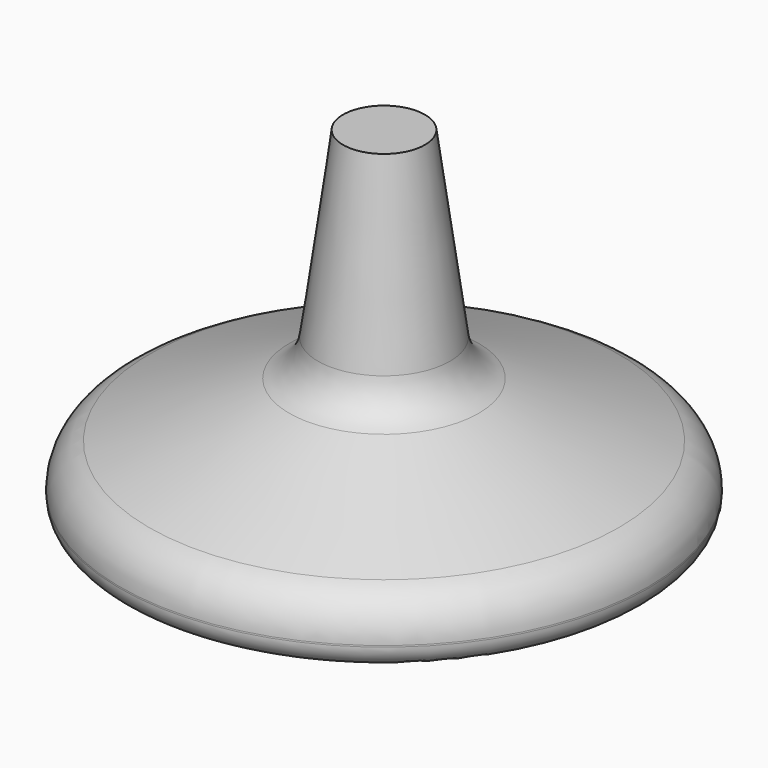
from build123d import *


with BuildPart() as f1:
    # F0 (on Front) → F1 (revolve)
    with BuildSketch(Plane.XZ):
        with BuildLine():
            Line((0, 58.632083), (0, 0))
            Line((0, 0), (5.658861, 0))
            Line((5.658861, 0), (8.948581, 5.30088))
            ThreePointArc((8.948581, 5.30088), (9.785319, 6.188049), (10.902196, 6.677728))
            Line((10.902196, 6.677728), (34.054866, 11.672399))
            ThreePointArc((34.054866, 11.672399), (35.789583, 12.740869), (36.468215, 14.661893))
            Line((36.468215, 14.661893), (36.468215, 14.860957))
            ThreePointArc((36.468215, 14.860957), (35.36687, 18.435047), (32.44487, 20.769356))
            Line((32.44487, 20.769356), (13.090622, 28.390822))
            ThreePointArc((13.090622, 28.390822), (10.425086, 30.37487), (9.126564, 33.433524))
            Line((9.126564, 33.433524), (5.658861, 58.632083))
            Line((5.658861, 58.632083), (0, 58.632083))
        make_face()
    revolve(axis=Axis((0, 0, 29.316042), (0, 0, -1)))


solid = f1.part
